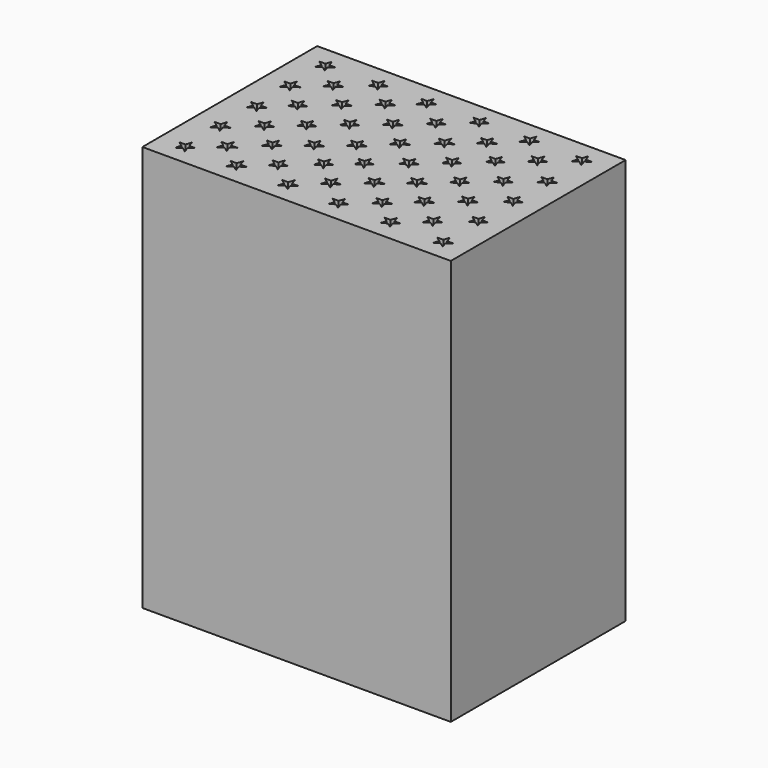
from build123d import *

# Parameters (mm, degrees)
F1_DEPTH = 25.4


with BuildPart() as f1:
    # F0 (on Top) → F1 (new body)
    with BuildSketch(Plane.XY):
        Polygon((-48.26, 25.4), (-48.26, 11.7221), (-28.956, 11.7221), (-28.956, 13.67536), (-28.956, 15.62862), (-28.956, 17.58442), (-28.956, 19.54022), (-28.956, 21.49348), (-28.956, 23.44674), (-28.956, 25.4), align=None)
        Polygon((-46.854987, 13.019954), (-47.168412, 13.247671), (-46.780998, 13.247671), (-46.66128, 13.616124), (-46.541562, 13.247671), (-46.154148, 13.247671), (-46.467573, 13.019954), (-46.347855, 12.651501), (-46.66128, 12.879218), (-46.974705, 12.651501), align=None, mode=Mode.SUBTRACT)
        Polygon((-43.663535, 13.036404), (-43.97696, 13.264121), (-43.589545, 13.264121), (-43.469828, 13.632574), (-43.35011, 13.264121), (-42.962695, 13.264121), (-43.27612, 13.036404), (-43.156403, 12.667951), (-43.469828, 12.895668), (-43.783253, 12.667951), align=None, mode=Mode.SUBTRACT)
        Polygon((-45.285336, 14.330036), (-45.598761, 14.557753), (-45.211347, 14.557753), (-45.091629, 14.926206), (-44.971911, 14.557753), (-44.584497, 14.557753), (-44.897922, 14.330036), (-44.778204, 13.961583), (-45.091629, 14.1893), (-45.405054, 13.961583), align=None, mode=Mode.SUBTRACT)
        Polygon((-40.439181, 13.036404), (-40.752606, 13.264121), (-40.365191, 13.264121), (-40.245473, 13.632574), (-40.125756, 13.264121), (-39.738341, 13.264121), (-40.051766, 13.036404), (-39.932048, 12.667951), (-40.245473, 12.895668), (-40.558898, 12.667951), align=None, mode=Mode.SUBTRACT)
        Polygon((-37.28063, 13.036404), (-37.594055, 13.264121), (-37.20664, 13.264121), (-37.086923, 13.632574), (-36.967205, 13.264121), (-36.579791, 13.264121), (-36.893215, 13.036404), (-36.773498, 12.667951), (-37.086923, 12.895668), (-37.400348, 12.667951), align=None, mode=Mode.SUBTRACT)
        Polygon((-42.121306, 14.376562), (-42.434731, 14.604279), (-42.047316, 14.604279), (-41.927598, 14.972732), (-41.807881, 14.604279), (-41.420466, 14.604279), (-41.733891, 14.376562), (-41.614174, 14.008109), (-41.927598, 14.235826), (-42.241023, 14.008109), align=None, mode=Mode.SUBTRACT)
        Polygon((-38.910746, 14.469615), (-39.224171, 14.697331), (-38.836757, 14.697331), (-38.717039, 15.065784), (-38.597321, 14.697331), (-38.209907, 14.697331), (-38.523332, 14.469615), (-38.403614, 14.101162), (-38.717039, 14.328878), (-39.030464, 14.101162), align=None, mode=Mode.SUBTRACT)
        Polygon((-46.860274, 15.775104), (-47.173698, 16.002821), (-46.786284, 16.002821), (-46.666566, 16.371274), (-46.546849, 16.002821), (-46.159434, 16.002821), (-46.472859, 15.775104), (-46.353141, 15.406651), (-46.666566, 15.634368), (-46.979991, 15.406651), align=None, mode=Mode.SUBTRACT)
        Polygon((-43.656788, 15.842132), (-43.970213, 16.069848), (-43.582799, 16.069848), (-43.463081, 16.438301), (-43.343363, 16.069848), (-42.955949, 16.069848), (-43.269374, 15.842132), (-43.149656, 15.473679), (-43.463081, 15.701395), (-43.776506, 15.473679), align=None, mode=Mode.SUBTRACT)
        Polygon((-45.236513, 17.183553), (-45.549938, 17.411269), (-45.162523, 17.411269), (-45.042805, 17.779723), (-44.923088, 17.411269), (-44.535673, 17.411269), (-44.849098, 17.183553), (-44.72938, 16.8151), (-45.042805, 17.042816), (-45.35623, 16.8151), align=None, mode=Mode.SUBTRACT)
        Polygon((-46.78202, 18.533315), (-47.095445, 18.761032), (-46.70803, 18.761032), (-46.588313, 19.129485), (-46.468595, 18.761032), (-46.081181, 18.761032), (-46.394606, 18.533315), (-46.274888, 18.164862), (-46.588313, 18.392578), (-46.901738, 18.164862), align=None, mode=Mode.SUBTRACT)
        Polygon((-43.651878, 18.513753), (-43.965303, 18.74147), (-43.577889, 18.74147), (-43.458171, 19.109923), (-43.338454, 18.74147), (-42.951039, 18.74147), (-43.264464, 18.513753), (-43.144746, 18.1453), (-43.458171, 18.373017), (-43.771596, 18.1453), align=None, mode=Mode.SUBTRACT)
        Polygon((-40.446233, 15.842132), (-40.759658, 16.069848), (-40.372243, 16.069848), (-40.252525, 16.438301), (-40.132808, 16.069848), (-39.745393, 16.069848), (-40.058818, 15.842132), (-39.9391, 15.473679), (-40.252525, 15.701395), (-40.56595, 15.473679), align=None, mode=Mode.SUBTRACT)
        Polygon((-42.051512, 17.098333), (-42.364937, 17.32605), (-41.977523, 17.32605), (-41.857805, 17.694503), (-41.738087, 17.32605), (-41.350673, 17.32605), (-41.664098, 17.098333), (-41.54438, 16.72988), (-41.857805, 16.957597), (-42.17123, 16.72988), align=None, mode=Mode.SUBTRACT)
        Polygon((-37.282202, 15.842132), (-37.595627, 16.069848), (-37.208212, 16.069848), (-37.088495, 16.438301), (-36.968777, 16.069848), (-36.581363, 16.069848), (-36.894787, 15.842132), (-36.77507, 15.473679), (-37.088495, 15.701395), (-37.40192, 15.473679), align=None, mode=Mode.SUBTRACT)
        Polygon((-38.934011, 17.121598), (-39.247436, 17.349314), (-38.860021, 17.349314), (-38.740303, 17.717767), (-38.620586, 17.349314), (-38.233171, 17.349314), (-38.546596, 17.121598), (-38.426878, 16.753145), (-38.740303, 16.980861), (-39.053728, 16.753145), align=None, mode=Mode.SUBTRACT)
        Polygon((-40.422968, 18.401062), (-40.736393, 18.628778), (-40.348979, 18.628778), (-40.229261, 18.997231), (-40.109543, 18.628778), (-39.722129, 18.628778), (-40.035554, 18.401062), (-39.915836, 18.032609), (-40.229261, 18.260325), (-40.542686, 18.032609), align=None, mode=Mode.SUBTRACT)
        Polygon((-37.235673, 18.494114), (-37.549098, 18.72183), (-37.161684, 18.72183), (-37.041966, 19.090283), (-36.922248, 18.72183), (-36.534834, 18.72183), (-36.848259, 18.494114), (-36.728541, 18.125661), (-37.041966, 18.353377), (-37.355391, 18.125661), align=None, mode=Mode.SUBTRACT)
        Polygon((-34.039825, 13.052853), (-34.35325, 13.28057), (-33.965835, 13.28057), (-33.846118, 13.649023), (-33.7264, 13.28057), (-33.338985, 13.28057), (-33.65241, 13.052853), (-33.532693, 12.6844), (-33.846118, 12.912117), (-34.159542, 12.6844), align=None, mode=Mode.SUBTRACT)
        Polygon((-30.716765, 13.019954), (-31.03019, 13.247671), (-30.642776, 13.247671), (-30.523058, 13.616124), (-30.40334, 13.247671), (-30.015926, 13.247671), (-30.329351, 13.019954), (-30.209633, 12.651501), (-30.523058, 12.879218), (-30.836483, 12.651501), align=None, mode=Mode.SUBTRACT)
        Polygon((-35.653658, 14.423089), (-35.967083, 14.650805), (-35.579668, 14.650805), (-35.459951, 15.019258), (-35.340233, 14.650805), (-34.952818, 14.650805), (-35.266243, 14.423089), (-35.146526, 14.054635), (-35.459951, 14.282352), (-35.773375, 14.054635), align=None, mode=Mode.SUBTRACT)
        Polygon((-32.466363, 14.423089), (-32.779788, 14.650805), (-32.392373, 14.650805), (-32.272656, 15.019258), (-32.152938, 14.650805), (-31.765523, 14.650805), (-32.078948, 14.423089), (-31.959231, 14.054635), (-32.272656, 14.282352), (-32.58608, 14.054635), align=None, mode=Mode.SUBTRACT)
        Polygon((-34.118175, 15.795607), (-34.4316, 16.023323), (-34.044186, 16.023323), (-33.924468, 16.391776), (-33.80475, 16.023323), (-33.417336, 16.023323), (-33.730761, 15.795607), (-33.611043, 15.427154), (-33.924468, 15.65487), (-34.237893, 15.427154), align=None, mode=Mode.SUBTRACT)
        Polygon((-35.653658, 17.14486), (-35.967083, 17.372577), (-35.579668, 17.372577), (-35.459951, 17.74103), (-35.340233, 17.372577), (-34.952818, 17.372577), (-35.266243, 17.14486), (-35.146526, 16.776407), (-35.459951, 17.004124), (-35.773375, 16.776407), align=None, mode=Mode.SUBTRACT)
        Polygon((-30.759602, 15.814229), (-31.073027, 16.041946), (-30.685613, 16.041946), (-30.565895, 16.410399), (-30.446177, 16.041946), (-30.058763, 16.041946), (-30.372188, 15.814229), (-30.25247, 15.445776), (-30.565895, 15.673493), (-30.87932, 15.445776), align=None, mode=Mode.SUBTRACT)
        Polygon((-32.481182, 17.163991), (-32.794607, 17.391708), (-32.407192, 17.391708), (-32.287475, 17.760161), (-32.167757, 17.391708), (-31.780343, 17.391708), (-32.093767, 17.163991), (-31.97405, 16.795538), (-32.287475, 17.023255), (-32.6009, 16.795538), align=None, mode=Mode.SUBTRACT)
        Polygon((-34.065816, 18.513753), (-34.379241, 18.74147), (-33.991827, 18.74147), (-33.872109, 19.109923), (-33.752391, 18.74147), (-33.364977, 18.74147), (-33.678402, 18.513753), (-33.558684, 18.1453), (-33.872109, 18.373017), (-34.185534, 18.1453), align=None, mode=Mode.SUBTRACT)
        Polygon((-30.740041, 18.533315), (-31.053466, 18.761032), (-30.666051, 18.761032), (-30.546334, 19.129485), (-30.426616, 18.761032), (-30.039201, 18.761032), (-30.352626, 18.533315), (-30.232909, 18.164862), (-30.546334, 18.392578), (-30.859759, 18.164862), align=None, mode=Mode.SUBTRACT)
        Polygon((-45.314766, 19.883077), (-45.628191, 20.110794), (-45.240776, 20.110794), (-45.121059, 20.479247), (-45.001341, 20.110794), (-44.613927, 20.110794), (-44.927352, 19.883077), (-44.807634, 19.514624), (-45.121059, 19.742341), (-45.434484, 19.514624), align=None, mode=Mode.SUBTRACT)
        Polygon((-46.879835, 21.252401), (-47.19326, 21.480117), (-46.805845, 21.480117), (-46.686128, 21.84857), (-46.56641, 21.480117), (-46.178996, 21.480117), (-46.492421, 21.252401), (-46.372703, 20.883948), (-46.686128, 21.111664), (-46.999553, 20.883948), align=None, mode=Mode.SUBTRACT)
        Polygon((-43.671444, 21.291526), (-43.984869, 21.519242), (-43.597454, 21.519242), (-43.477736, 21.887695), (-43.358019, 21.519242), (-42.970604, 21.519242), (-43.284029, 21.291526), (-43.164312, 20.923072), (-43.477736, 21.150789), (-43.791161, 20.923072), align=None, mode=Mode.SUBTRACT)
        Polygon((-42.067244, 19.902639), (-42.380669, 20.130355), (-41.993255, 20.130355), (-41.873537, 20.498808), (-41.753819, 20.130355), (-41.366405, 20.130355), (-41.67983, 19.902639), (-41.560112, 19.534185), (-41.873537, 19.761902), (-42.186962, 19.534185), align=None, mode=Mode.SUBTRACT)
        Polygon((-38.887482, 19.843367), (-39.200907, 20.071084), (-38.813492, 20.071084), (-38.693774, 20.439537), (-38.574057, 20.071084), (-38.186642, 20.071084), (-38.500067, 19.843367), (-38.38035, 19.474914), (-38.693774, 19.702631), (-39.007199, 19.474914), align=None, mode=Mode.SUBTRACT)
        Polygon((-40.443483, 21.232839), (-40.756908, 21.460556), (-40.369494, 21.460556), (-40.249776, 21.829009), (-40.130058, 21.460556), (-39.742644, 21.460556), (-40.056069, 21.232839), (-39.936351, 20.864386), (-40.249776, 21.092103), (-40.563201, 20.864386), align=None, mode=Mode.SUBTRACT)
        Polygon((-37.215523, 21.252401), (-37.528948, 21.480117), (-37.141533, 21.480117), (-37.021816, 21.84857), (-36.902098, 21.480117), (-36.514684, 21.480117), (-36.828109, 21.252401), (-36.708391, 20.883948), (-37.021816, 21.111664), (-37.335241, 20.883948), align=None, mode=Mode.SUBTRACT)
        Polygon((-45.253101, 22.603603), (-45.566526, 22.831319), (-45.179112, 22.831319), (-45.059394, 23.199772), (-44.939676, 22.831319), (-44.552262, 22.831319), (-44.865687, 22.603603), (-44.745969, 22.235149), (-45.059394, 22.462866), (-45.372819, 22.235149), align=None, mode=Mode.SUBTRACT)
        Polygon((-46.853507, 23.965461), (-46.940136, 24.0284), (-47.166932, 24.193177), (-46.779518, 24.193177), (-46.6598, 24.56163), (-46.540082, 24.193177), (-46.152668, 24.193177), (-46.379464, 24.0284), (-46.466093, 23.965461), (-46.346375, 23.597008), (-46.6598, 23.824724), (-46.973225, 23.597008), align=None, mode=Mode.SUBTRACT)
        Polygon((-43.573625, 23.99105), (-43.88705, 24.218766), (-43.499635, 24.218766), (-43.379918, 24.587219), (-43.2602, 24.218766), (-42.872786, 24.218766), (-43.18621, 23.99105), (-43.066493, 23.622597), (-43.379918, 23.850313), (-43.693343, 23.622597), align=None, mode=Mode.SUBTRACT)
        Polygon((-42.047679, 22.660849), (-42.361104, 22.888566), (-41.973689, 22.888566), (-41.853972, 23.257019), (-41.734254, 22.888566), (-41.34684, 22.888566), (-41.660265, 22.660849), (-41.540547, 22.292396), (-41.853972, 22.520113), (-42.167397, 22.292396), align=None, mode=Mode.SUBTRACT)
        Polygon((-38.839284, 22.621726), (-39.152709, 22.849443), (-38.765294, 22.849443), (-38.645577, 23.217896), (-38.525859, 22.849443), (-38.138445, 22.849443), (-38.451869, 22.621726), (-38.332152, 22.253273), (-38.645577, 22.48099), (-38.959002, 22.253273), align=None, mode=Mode.SUBTRACT)
        Polygon((-40.502172, 23.99105), (-40.815596, 24.218766), (-40.428182, 24.218766), (-40.308464, 24.587219), (-40.188747, 24.218766), (-39.801332, 24.218766), (-40.114757, 23.99105), (-39.995039, 23.622597), (-40.308464, 23.850313), (-40.621889, 23.622597), align=None, mode=Mode.SUBTRACT)
        Polygon((-37.25465, 24.030173), (-37.568075, 24.257889), (-37.18066, 24.257889), (-37.060943, 24.626342), (-36.941225, 24.257889), (-36.55381, 24.257889), (-36.867235, 24.030173), (-36.747518, 23.66172), (-37.060943, 23.889436), (-37.374367, 23.66172), align=None, mode=Mode.SUBTRACT)
        Polygon((-35.65045, 19.883077), (-35.963875, 20.110794), (-35.576461, 20.110794), (-35.456743, 20.479247), (-35.337025, 20.110794), (-34.949611, 20.110794), (-35.263036, 19.883077), (-35.143318, 19.514624), (-35.456743, 19.742341), (-35.770168, 19.514624), align=None, mode=Mode.SUBTRACT)
        Polygon((-32.442055, 19.883077), (-32.75548, 20.110794), (-32.368066, 20.110794), (-32.248348, 20.479247), (-32.12863, 20.110794), (-31.741216, 20.110794), (-32.054641, 19.883077), (-31.934923, 19.514624), (-32.248348, 19.742341), (-32.561773, 19.514624), align=None, mode=Mode.SUBTRACT)
        Polygon((-34.065816, 21.291526), (-34.379241, 21.519242), (-33.991827, 21.519242), (-33.872109, 21.887695), (-33.752391, 21.519242), (-33.364977, 21.519242), (-33.678402, 21.291526), (-33.558684, 20.923072), (-33.872109, 21.150789), (-34.185534, 20.923072), align=None, mode=Mode.SUBTRACT)
        Polygon((-30.740041, 21.193716), (-31.053466, 21.421433), (-30.666051, 21.421433), (-30.546334, 21.789886), (-30.426616, 21.421433), (-30.039201, 21.421433), (-30.352626, 21.193716), (-30.232909, 20.825263), (-30.546334, 21.05298), (-30.859759, 20.825263), align=None, mode=Mode.SUBTRACT)
        Polygon((-35.630889, 22.582601), (-35.944314, 22.810318), (-35.556899, 22.810318), (-35.437182, 23.178771), (-35.317464, 22.810318), (-34.930049, 22.810318), (-35.243474, 22.582601), (-35.123757, 22.214148), (-35.437182, 22.441865), (-35.750607, 22.214148), align=None, mode=Mode.SUBTRACT)
        Polygon((-32.481182, 22.621726), (-32.794607, 22.849443), (-32.407192, 22.849443), (-32.287475, 23.217896), (-32.167757, 22.849443), (-31.780343, 22.849443), (-32.093767, 22.621726), (-31.97405, 22.253273), (-32.287475, 22.48099), (-32.6009, 22.253273), align=None, mode=Mode.SUBTRACT)
        Polygon((-34.094907, 24.030707), (-34.408332, 24.258424), (-34.020917, 24.258424), (-33.9012, 24.626877), (-33.781482, 24.258424), (-33.394068, 24.258424), (-33.707492, 24.030707), (-33.587775, 23.662254), (-33.9012, 23.889971), (-34.214625, 23.662254), align=None, mode=Mode.SUBTRACT)
        Polygon((-30.818292, 23.99105), (-31.131717, 24.218766), (-30.744303, 24.218766), (-30.624585, 24.587219), (-30.504868, 24.218766), (-30.117453, 24.218766), (-30.430878, 23.99105), (-30.31116, 23.622597), (-30.624585, 23.850313), (-30.93801, 23.622597), align=None, mode=Mode.SUBTRACT)
    extrude(amount=F1_DEPTH)


solid = f1.part
